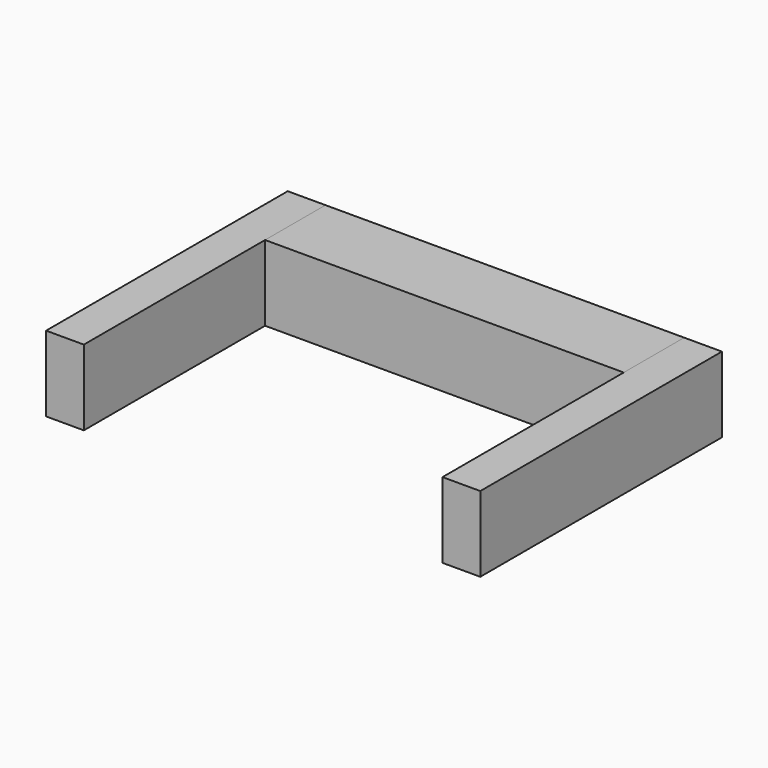
from build123d import *

# Parameters (mm, degrees)
F0_W     = 120.65
F0_H     = 25.4
F1_DEPTH = 25.4
F0_W_2   = 12.7
F2_DEPTH = 101.6


with BuildPart() as f1:
    # F0 (on Front) → F1 (new body)
    with BuildSketch(Plane.XZ):
        Rectangle(F0_W, F0_H)
    extrude(amount=F1_DEPTH)


with BuildPart() as f2:
    # F0 (on Front) → F2 (new body)
    with BuildSketch(Plane.XZ):
        with Locations((-66.675, 0)):
            Rectangle(F0_W_2, F0_H)
        with Locations((66.675, 0)):
            Rectangle(F0_W_2, F0_H)
    extrude(amount=F2_DEPTH)


solid = Compound([f1.part, f2.part])
